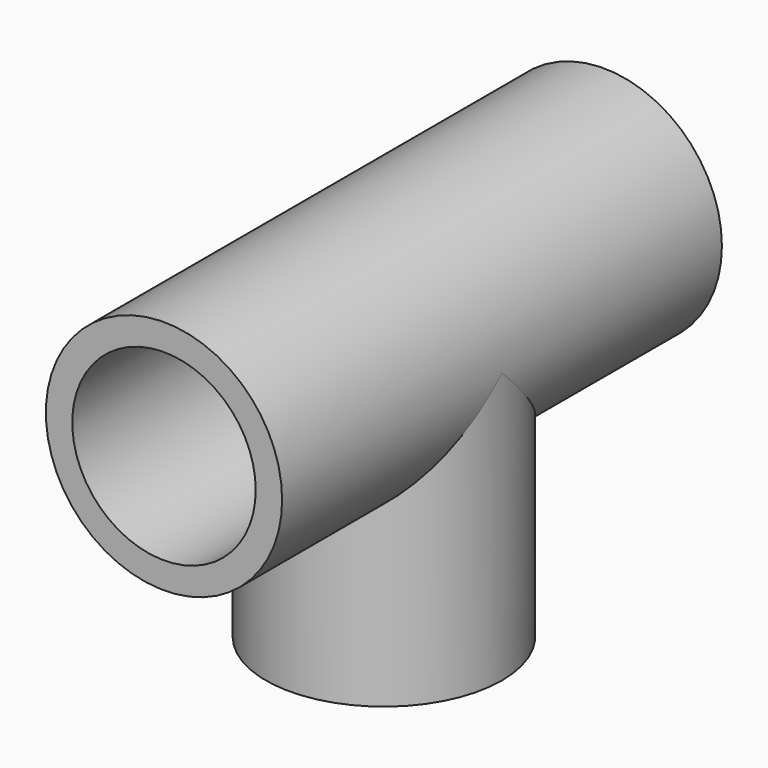
from build123d import *

# Parameters (mm, degrees)
F1_R     = 13.7541
F1_R_2   = 10.6807
F2_DEPTH = 64.008
F3_R     = 13.7541
F3_R_2   = 10.6807
F4_DEPTH = 31.5214
F5_DEPTH = 64.009
F6_DEPTH = 25.4


with BuildPart() as f2:
    # F1 (on offset) → F2 (new body)
    with BuildSketch(Plane.XZ.offset(31.6484)):
        Circle(F1_R)
        Circle(F1_R_2, mode=Mode.SUBTRACT)
    extrude(amount=F2_DEPTH)

    # F3 (on Top) → F4 (join)
    with BuildSketch(Plane.XY):
        with Locations((0, -63.6524)):
            Circle(F3_R)
        with Locations((0, -63.6524)):
            Circle(F3_R_2, mode=Mode.SUBTRACT)
    extrude(amount=-F4_DEPTH)

    # F1 (on offset) → F5 (cut, through all)
    with BuildSketch(Plane.XZ.offset(31.6484)):
        Circle(F1_R_2)
    extrude(amount=F5_DEPTH, mode=Mode.SUBTRACT)

    # F3 (on Top) → F6 (cut)
    with BuildSketch(Plane.XY):
        with Locations((0, -63.6524)):
            Circle(F3_R_2)
    extrude(amount=-F6_DEPTH, mode=Mode.SUBTRACT)


solid = f2.part
